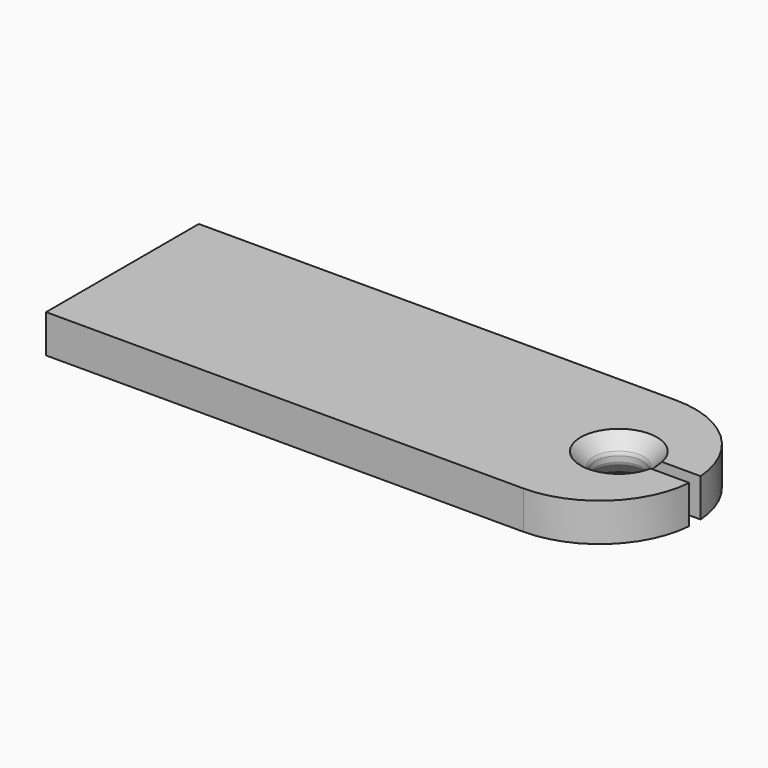
from build123d import *

# Parameters (mm, degrees)
F1_DEPTH = 4
F3_DEPTH = 4.001
F4_SIZE  = 1.5
F5_R     = 0.5


with BuildPart() as f1:
    # F0 (on Top) → F1 (new body)
    with BuildSketch(Plane.XY):
        with BuildLine():
            Line((-16.7304610461, 10), (-16.7304610461, 0))
            Line((-16.7304610461, 0), (-16.7304610461, -10))
            Line((-16.7304610461, -10), (33.2695389539, -10))
            ThreePointArc((33.2695389539, -10), (43.2695389539, 0), (33.2695389539, 10))
            Line((33.2695389539, 10), (-16.7304610461, 10))
        make_face()
    extrude(amount=F1_DEPTH)

    # F2 (on face) → F3 (cut, through all)
    with BuildSketch(Plane.XY.offset(4)):
        with BuildLine():
            Line((37.6543869574, -0.75), (43.2413742915, -0.75))
            ThreePointArc((43.2413742915, -0.75), (43.2695389539, 0), (43.2413742915, 0.75))
            Line((43.2413742915, 0.75), (37.6543869574, 0.75))
            ThreePointArc((37.6543869574, 0.75), (37.7405832684, 0.3793942482), (37.7695389539, 0))
            ThreePointArc((37.7695389539, 0), (37.7405832684, -0.3793942482), (37.6543869574, -0.75))
        make_face()
        with BuildLine():
            ThreePointArc((37.6543869574, 0.75), (32.7695389539, 0), (37.6543869574, -0.75))
            Line((37.6543869574, -0.75), (35.2695389539, -0.75))
            Line((35.2695389539, -0.75), (35.2695389539, 0.75))
            Line((35.2695389539, 0.75), (37.6543869574, 0.75))
        make_face()
        with BuildLine():
            Line((35.2695389539, -0.75), (37.6543869574, -0.75))
            ThreePointArc((37.6543869574, -0.75), (37.7405832684, -0.3793942482), (37.7695389539, 0))
            ThreePointArc((37.7695389539, 0), (37.7405832684, 0.3793942482), (37.6543869574, 0.75))
            Line((37.6543869574, 0.75), (35.2695389539, 0.75))
            Line((35.2695389539, 0.75), (35.2695389539, -0.75))
        make_face()
    extrude(amount=-F3_DEPTH, mode=Mode.SUBTRACT)

    # F4
    f4_edges = [f1.edges().sort_by_distance(p)[0] for p in [
        (32.769539, 0, 4),
        (32.769539, 0, 0),
    ]]
    chamfer(f4_edges, length=F4_SIZE)

    # F5
    f5_edges = [f1.edges().sort_by_distance(p)[0] for p in [
        (32.769539, 0, 2.5),
        (32.769539, 0, 1.5),
    ]]
    fillet(f5_edges, radius=F5_R)


solid = f1.part
